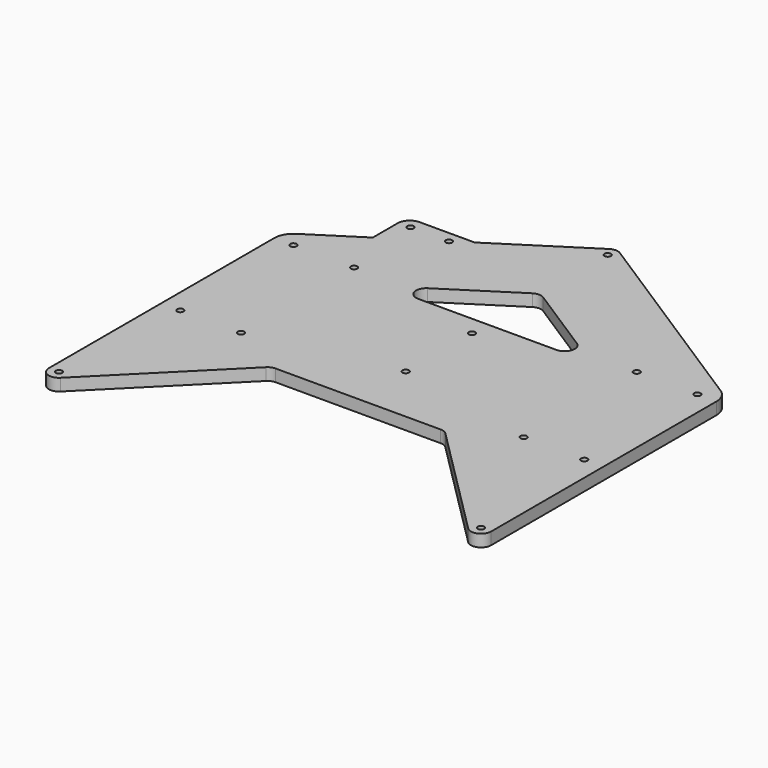
from build123d import *

# Parameters (mm, degrees)
F0_R     = 1.5875
F1_DEPTH = 6


with BuildPart() as f1:
    # F0 (on Top) → F1 (new body)
    with BuildSketch(Plane.XY):
        with BuildLine():
            Line((-109.5, 35), (-109.5, -104.5))
            ThreePointArc((-109.5, -104.5), (-106.413417, -109.119398), (-100.964466, -108.035534))
            Line((-100.964466, -108.035534), (-44.393398, -51.464466))
            ThreePointArc((-44.393398, -51.464466), (-42.771282, -50.380602), (-40.857864, -50))
            Line((-40.857864, -50), (0, -50))
            Line((0, -50), (40.857864, -50))
            ThreePointArc((40.857864, -50), (42.771282, -50.380602), (44.393398, -51.464466))
            Line((44.393398, -51.464466), (100.964466, -108.035534))
            ThreePointArc((100.964466, -108.035534), (106.413417, -109.119398), (109.5, -104.5))
            Line((109.5, -104.5), (109.5, 35))
            ThreePointArc((109.5, 35), (108.336136, 39.556187), (105.129719, 42.995998))
            Line((105.129719, 42.995998), (2.699852, 108.70842))
            ThreePointArc((2.699852, 108.70842), (1.406752, 109.298026), (0, 109.5))
            ThreePointArc((0, 109.5), (-1.406752, 109.298026), (-2.699852, 108.70842))
            Line((-2.699852, 108.70842), (-46.669997, 80.5))
            Line((-46.669997, 80.5), (-74, 80.5))
            ThreePointArc((-74, 80.5), (-78.242641, 78.742641), (-80, 74.5))
            Line((-80, 74.5), (-80, 59.117611))
            Line((-80, 59.117611), (-105.129719, 42.995998))
            ThreePointArc((-105.129719, 42.995998), (-108.336136, 39.556187), (-109.5, 35))
        make_face()
        with Locations((-104.5, -104.5)):
            Circle(F0_R, mode=Mode.SUBTRACT)
        with Locations((-100, -35)):
            Circle(F0_R, mode=Mode.SUBTRACT)
        with Locations((-70, -35)):
            Circle(F0_R, mode=Mode.SUBTRACT)
        with Locations((104.5, -104.5)):
            Circle(F0_R, mode=Mode.SUBTRACT)
        with Locations((0, -20.5)):
            Circle(F0_R, mode=Mode.SUBTRACT)
        with Locations((70, -35)):
            Circle(F0_R, mode=Mode.SUBTRACT)
        with Locations((100, -35)):
            Circle(F0_R, mode=Mode.SUBTRACT)
        with Locations((-100, 35)):
            Circle(F0_R, mode=Mode.SUBTRACT)
        with Locations((-70, 35)):
            Circle(F0_R, mode=Mode.SUBTRACT)
        with Locations((-74, 75)):
            Circle(F0_R, mode=Mode.SUBTRACT)
        with Locations((-55, 75)):
            Circle(F0_R, mode=Mode.SUBTRACT)
        with Locations((0, 20.5)):
            Circle(F0_R, mode=Mode.SUBTRACT)
        with BuildLine():
            Line((34.255654, 30), (0, 30))
            Line((0, 30), (-34.255654, 30))
            ThreePointArc((-34.255654, 30), (-39.05368, 33.593248), (-36.955506, 39.20842))
            Line((-36.955506, 39.20842), (-2.699852, 61.184647))
            ThreePointArc((-2.699852, 61.184647), (0, 61.976227), (2.699852, 61.184647))
            Line((2.699852, 61.184647), (36.955506, 39.20842))
            ThreePointArc((36.955506, 39.20842), (39.05368, 33.593248), (34.255654, 30))
        make_face(mode=Mode.SUBTRACT)
        with Locations((70, 35)):
            Circle(F0_R, mode=Mode.SUBTRACT)
        with Locations((100, 35)):
            Circle(F0_R, mode=Mode.SUBTRACT)
        with Locations((0, 104.5)):
            Circle(F0_R, mode=Mode.SUBTRACT)
    extrude(amount=F1_DEPTH)


solid = f1.part
